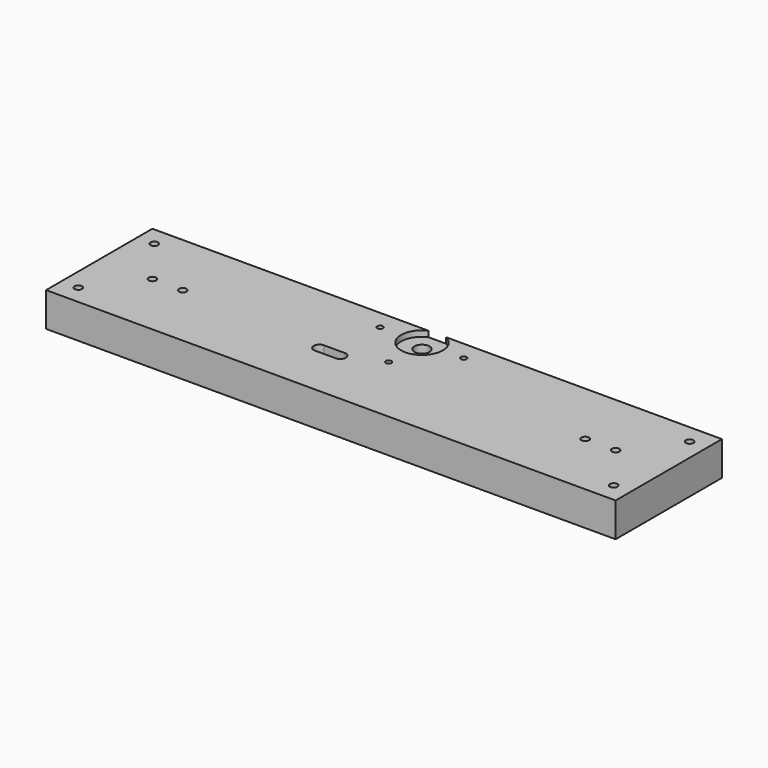
from build123d import *

# Parameters (mm, degrees)
CYLINDER009_R     = 4
CYLINDER009_DEPTH = 10
CYLINDER008_R     = 4
CYLINDER008_DEPTH = 10
CYLINDER002_R     = 1.5
CYLINDER002_DEPTH = 25
ARRAY002_COUNT    = 4
CYLINDER003_R     = 11
CYLINDER003_DEPTH = 10
CYLINDER005_R     = 11
CYLINDER005_DEPTH = 5
CYLINDER004_R     = 4
CYLINDER004_DEPTH = 30
CYLINDER_R        = 2
CYLINDER_DEPTH    = 25
ARRAY_Y_COUNT     = 2
ARRAY_Y_PITCH     = 50
CYLINDER001_R     = 2
CYLINDER001_DEPTH = 25
ARRAY001_X_COUNT  = 2
ARRAY001_X_PITCH  = 16
BOX_W             = 150
BOX_H             = 70
BOX_DEPTH         = 18
BOX001_W          = 11
BOX001_H          = 6
BOX001_DEPTH      = 25
CYLINDER006_R     = 3
CYLINDER006_DEPTH = 25
CYLINDER007_R     = 3
CYLINDER007_DEPTH = 25


with BuildPart() as cilindro009:
    # Cylinder009 → Cylinder009 (new body)
    with BuildSketch(Plane(origin=(240, 61, 0), x_dir=(1, 0, 0), z_dir=(0, 0, 1))):
        Circle(CYLINDER009_R)
    extrude(amount=CYLINDER009_DEPTH)


with BuildPart() as cilindro008:
    # Cylinder008 → Cylinder008 (new body)
    with BuildSketch(Plane(origin=(60, 61, 0), x_dir=(1, 0, 0), z_dir=(0, 0, 1))):
        Circle(CYLINDER008_R)
    extrude(amount=CYLINDER008_DEPTH)


with BuildPart() as array002:
    # Cylinder002 → Cylinder002 (new body)
    with BuildSketch(Plane(origin=(22, 0, 0), x_dir=(1, 0, 0), z_dir=(0, 0, 1))):
        Circle(CYLINDER002_R)
    extrude(amount=CYLINDER002_DEPTH)

    # Array002: Array002 ×4 about axis
    array002_axis = Axis((0, 0, 0), (0, 0, 1))


with BuildPart() as array002_1:
    add(array002.part)
    for i in range(1, ARRAY002_COUNT):
        add(array002.part.rotate(array002_axis, i * 360 / ARRAY002_COUNT))


with BuildPart() as array002_2:
    # Array002 placement: moved
    add(array002_1.part.moved(Location((150, 60, 0))))


with BuildPart() as cilindro003:
    # Cylinder003 → Cylinder003 (new body)
    with BuildSketch(Plane.XY.offset(15)):
        Circle(CYLINDER003_R)
    extrude(amount=CYLINDER003_DEPTH)


with BuildPart() as fusion:
    # Cylinder005 → Cylinder005 (new body)
    with BuildSketch(Plane.XY):
        Circle(CYLINDER005_R)
    extrude(amount=CYLINDER005_DEPTH)

    # Fusion: union Cilindro003
    add(cilindro003.part)


with BuildPart() as fusion_1:
    # Fusion placement: moved
    add(fusion.part.moved(Location((150, 60, 0))))


with BuildPart() as huecomotor:
    # Cylinder004 → Cylinder004 (new body)
    with BuildSketch(Plane(origin=(150, 60, 0), x_dir=(1, 0, 0), z_dir=(0, 0, 1))):
        Circle(CYLINDER004_R)
    extrude(amount=CYLINDER004_DEPTH)

    # Fusion001: union Fusion
    add(fusion_1.part)


with BuildPart() as array:
    # Cylinder → Cylinder (new body)
    with BuildSketch(Plane.XY):
        Circle(CYLINDER_R)
    extrude(amount=CYLINDER_DEPTH)

    # Array Y: Array ×2


with BuildPart() as array_1:
    add(array.part)
    with Locations(*[(0, i * ARRAY_Y_PITCH, 0) for i in range(1, ARRAY_Y_COUNT)]):
        add(array.part)


with BuildPart() as array_2:
    # Array placement: moved
    add(array_1.part.moved(Location((9, 10, 0))))


with BuildPart() as array001:
    # Cylinder001 → Cylinder001 (new body)
    with BuildSketch(Plane(origin=(28, 0, 0), x_dir=(1, 0, 0), z_dir=(0, 0, 1))):
        Circle(CYLINDER001_R)
    extrude(amount=CYLINDER001_DEPTH)

    # Array001 X: Array001 ×2


with BuildPart() as array001_1:
    add(array001.part)
    with Locations(*[(i * ARRAY001_X_PITCH, 0, 0) for i in range(1, ARRAY001_X_COUNT)]):
        add(array001.part)


with BuildPart() as array001_2:
    # Array001 placement: moved
    add(array001_1.part.moved(Location((0, 35, 0))))


with BuildPart() as base:
    # Box → Box (new body)
    with BuildSketch(Plane.XY):
        with Locations((75, 35)):
            Rectangle(BOX_W, BOX_H)
    extrude(amount=BOX_DEPTH)

    # Cut: cut Array001
    add(array001_2.part, mode=Mode.SUBTRACT)

    # Cut001: cut Array
    add(array_2.part, mode=Mode.SUBTRACT)


with BuildPart() as mirror_of_base:
    # mirror: instance of Base
    add(base.part.mirror(Plane(origin=(150, 0, 0), x_dir=(0, 1, 0), z_dir=(-1, 0, 0))))


with BuildPart() as cubo001:
    # Box001 → Box001 (new body)
    with BuildSketch(Plane(origin=(120, 27, 0), x_dir=(1, 0, 0), z_dir=(0, 0, 1))):
        with Locations((5.5, 3)):
            Rectangle(BOX001_W, BOX001_H)
    extrude(amount=BOX001_DEPTH)


with BuildPart() as cilindro006:
    # Cylinder006 → Cylinder006 (new body)
    with BuildSketch(Plane(origin=(120, 30, 0), x_dir=(1, 0, 0), z_dir=(0, 0, 1))):
        Circle(CYLINDER006_R)
    extrude(amount=CYLINDER006_DEPTH)


with BuildPart() as fusion002:
    # Cylinder007 → Cylinder007 (new body)
    with BuildSketch(Plane(origin=(131, 30, 0), x_dir=(1, 0, 0), z_dir=(0, 0, 1))):
        Circle(CYLINDER007_R)
    extrude(amount=CYLINDER007_DEPTH)

    # Fusion002: union Cubo001, Cilindro006
    add(cubo001.part)
    add(cilindro006.part)


with BuildPart() as cut006:
    # Cut002 base: copy of Base
    add(base.part)

    # Cut002: cut Fusion002
    add(fusion002.part, mode=Mode.SUBTRACT)

    # Fusion003: union Mirror of Base
    add(mirror_of_base.part)

    # Cut003: cut HuecoMotor
    add(huecomotor.part, mode=Mode.SUBTRACT)

    # Cut004: cut Array002
    add(array002_2.part, mode=Mode.SUBTRACT)

    # Cut005: cut Cilindro008
    add(cilindro008.part, mode=Mode.SUBTRACT)

    # Cut006: cut Cilindro009
    add(cilindro009.part, mode=Mode.SUBTRACT)


solid = cut006.part
